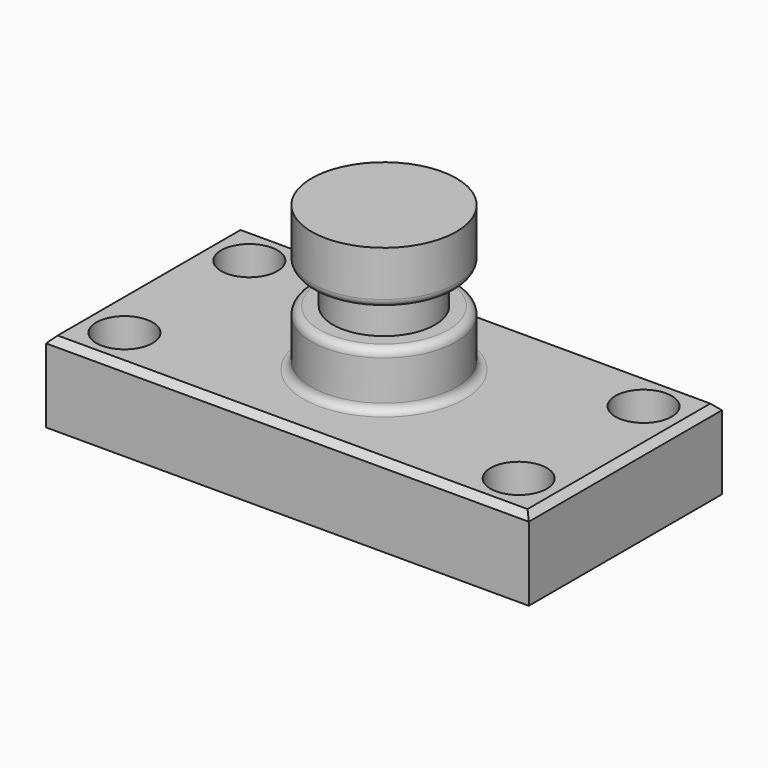
from build123d import *

# Parameters (mm, degrees)
F0_W     = 152.4
F0_H     = 76.2
F1_DEPTH = 25.4
F2_R     = 8.89
F3_DEPTH = 25.4
F4_SIZE  = 2.032
F5_W     = 22.86
F5_H     = 45.72
F7_W     = 6.9182990119
F7_H     = 11.1455507576
F9_R     = 2.54
F10_R    = 2.54


with BuildPart() as f1:
    # F0 (on Top) → F1 (new body)
    with BuildSketch(Plane.XY):
        Rectangle(F0_W, F0_H)
    extrude(amount=F1_DEPTH)

    # F2 (on face) → F3 (cut)
    with BuildSketch(Plane.XY.offset(25.4)):
        with Locations((-62.23, 24.638)):
            Circle(F2_R)
        with Locations((62.23, -24.638)):
            Circle(F2_R)
        with Locations((62.23, 24.638)):
            Circle(F2_R)
        with Locations((-62.23, -24.638)):
            Circle(F2_R)
    extrude(amount=-F3_DEPTH, mode=Mode.SUBTRACT)

    # F4
    f4_edges = [f1.edges().sort_by_distance(p)[0] for p in [
        (76.2, 0, 25.4),
        (0, 38.1, 25.4),
        (0, -38.1, 25.4),
        (-76.2, 0, 25.4),
    ]]
    chamfer(f4_edges, length=F4_SIZE)

    # F5 (on Front) → F6 (revolve)
    with BuildSketch(Plane.XZ):
        with Locations((11.43, 48.26)):
            Rectangle(F5_W, F5_H)
    revolve(axis=Axis((0, 0, 48.26), (0, 0, 1)))

    # F7 (on Front) → F8 (revolve, cut)
    with BuildSketch(Plane.XZ):
        with Locations((19.5512440987, 48.6171673983)):
            Rectangle(F7_W, F7_H)
    revolve(axis=Axis((0, 0, 25.4), (0, 0, 1)), mode=Mode.SUBTRACT)

    # F9
    f9_edges = [f1.edges().sort_by_distance(p)[0] for p in [
        (22.86, 0, 34.222196),
        (-22.86, 0, 43.044392),
        (-22.86, 0, 25.4),
    ]]
    fillet(f9_edges, radius=F9_R)

    # F10
    f10_edges = [f1.edges().sort_by_distance(p)[0] for p in [
        (-22.86, 0, 54.189943),
    ]]
    fillet(f10_edges, radius=F10_R)


solid = f1.part
